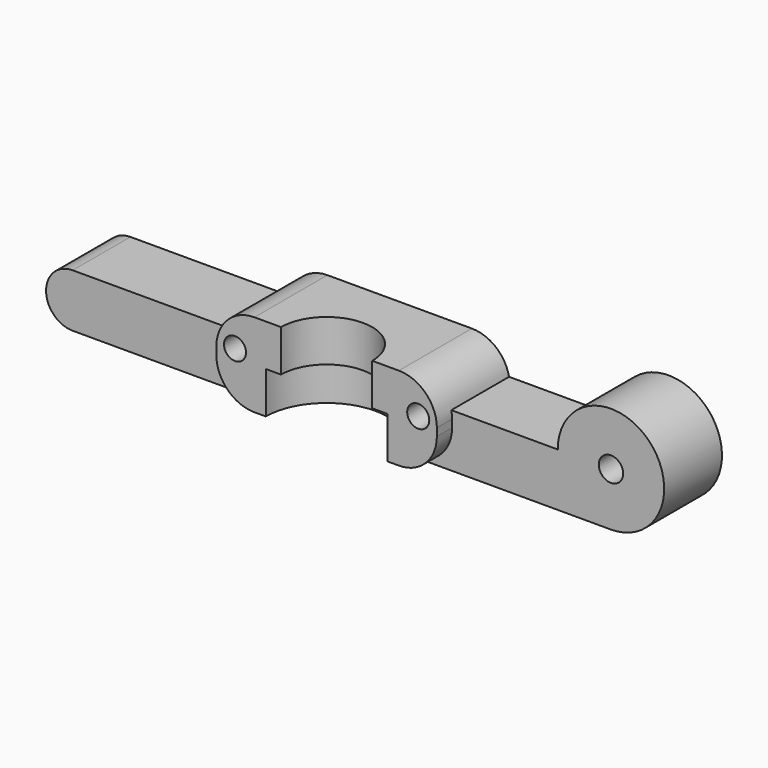
from build123d import *

# Parameters (mm, degrees)
F0_R      = 1.6
F1_DEPTH  = 4.75
F2_W      = 25
F2_H      = 11
F3_DEPTH  = 12
F5_DEPTH  = 6
F7_DEPTH  = 5.5
F8_W      = 12
F8_H      = 11
F9_DEPTH  = 2
F10_W     = 12
F10_H     = 11
F11_DEPTH = 2
F12_R     = 1.45
F14_DEPTH = 25
F13_R     = 1.45
F15_DEPTH = 25
F16_R     = 5


with BuildPart() as f1:
    # F0 (on Front) → F1 (new body, symmetric)
    with BuildSketch(Plane.XZ):
        with BuildLine():
            ThreePointArc((35.398387, -3.5), (40.348135, 8.449747), (28.398387, 3.5))
            Line((28.398387, 3.5), (-35.398387, 3.5))
            ThreePointArc((-35.398387, 3.5), (-38.898387, 0), (-35.398387, -3.5))
            Line((-35.398387, -3.5), (35.398387, -3.5))
        make_face()
        with Locations((35.398387, 3.5)):
            Circle(F0_R, mode=Mode.SUBTRACT)
    extrude(amount=F1_DEPTH, both=True)

    # F2 (on face) → F3 (join)
    with BuildSketch(Plane(origin=(0, 4.75, 0), x_dir=(-1, 0, 0), z_dir=(0, 1, 0))):
        with Locations((0, 2)):
            Rectangle(F2_W, F2_H)
    extrude(amount=-F3_DEPTH)

    # F4 (on face) → F5 (cut)
    with BuildSketch(Plane.XY.offset(7.5)):
        with BuildLine():
            Line((-6, -7.25), (6, -7.25))
            ThreePointArc((6, -7.25), (0, -1.25), (-6, -7.25))
        make_face()
        with BuildLine():
            ThreePointArc((-6, -7.25), (0, -13.25), (6, -7.25))
            Line((6, -7.25), (-6, -7.25))
        make_face()
    extrude(amount=-F5_DEPTH, mode=Mode.SUBTRACT)

    # F6 (on face) → F7 (cut)
    with BuildSketch(Plane(origin=(0, 0, -3.5), x_dir=(1, 0, 0), z_dir=(0, 0, -1))):
        with BuildLine():
            Line((-8, 7.25), (8, 7.25))
            ThreePointArc((8, 7.25), (0, 15.25), (-8, 7.25))
        make_face()
        with BuildLine():
            ThreePointArc((-8, 7.25), (0, -0.75), (8, 7.25))
            Line((8, 7.25), (-8, 7.25))
        make_face()
    extrude(amount=-F7_DEPTH, mode=Mode.SUBTRACT)

    # F8 (on face) → F9 (join)
    with BuildSketch(Plane.YZ.offset(12.5)):
        with Locations((-1.25, 2)):
            Rectangle(F8_W, F8_H)
    extrude(amount=F9_DEPTH)

    # F10 (on face) → F11 (join)
    with BuildSketch(Plane(origin=(-12.5, 0, 0), x_dir=(0, -1, 0), z_dir=(-1, 0, 0))):
        with Locations((1.25, 2)):
            Rectangle(F10_W, F10_H)
    extrude(amount=F11_DEPTH)

    # F12 (on face) → F14 (cut)
    with BuildSketch(Plane.XZ.offset(7.25)):
        with Locations((-12.05, 3.05)):
            Circle(F12_R)
    extrude(amount=-F14_DEPTH, mode=Mode.SUBTRACT)

    # F13 (on face) → F15 (cut)
    with BuildSketch(Plane.XZ.offset(7.25)):
        with Locations((12.05, 3.05)):
            Circle(F13_R)
    extrude(amount=-F15_DEPTH, mode=Mode.SUBTRACT)

    # F16
    f16_edges = [f1.edges().sort_by_distance(p)[0] for p in [
        (-14.5, -6, -3.5),
        (-14.5, -1.25, 7.5),
        (14.5, -6, -3.5),
        (14.5, -1.25, 7.5),
    ]]
    fillet(f16_edges, radius=F16_R)


solid = f1.part
